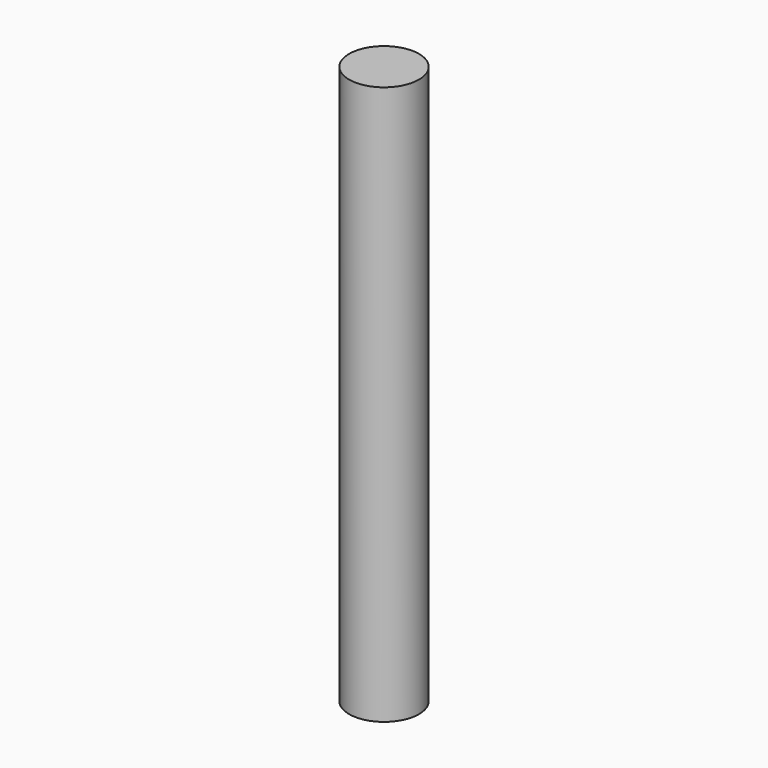
from build123d import *

# Parameters (mm, degrees)
SKETCH_R  = 1.5
PAD_DEPTH = 24


with BuildPart() as part:
    # Sketch → Pad (new body)
    with BuildSketch(Plane.XY):
        Circle(SKETCH_R)
    extrude(amount=PAD_DEPTH)


solid = part.part
